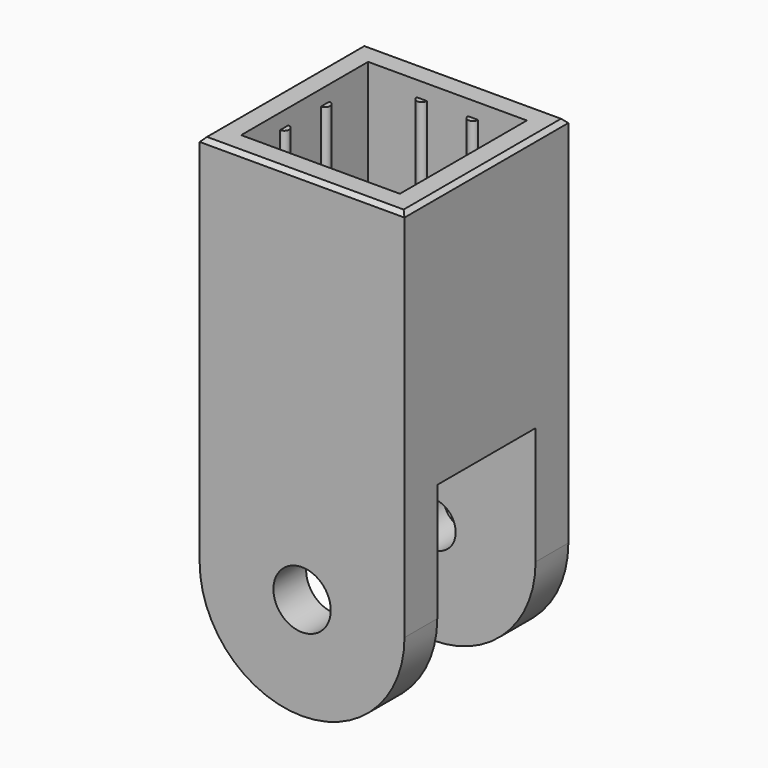
from build123d import *

# Parameters (mm, degrees)
SKETCH264_R           = 2.2
PAD066_DEPTH          = 10
POCKET176_DEPTH       = 10.001
POCKET176_DEPTH_BACK  = 10.001
SKETCH265_W           = 15.5
SKETCH265_H           = 15.5
POCKET177_DEPTH       = 23.501
CYLINDER014_R         = 0.5
CYLINDER014_DEPTH     = 20
CYLINDER015_R         = 0.5
CYLINDER015_DEPTH     = 20
POLARPATTERN005_COUNT = 4
SKETCH271_R           = 2.8
POCKET189_DEPTH       = 4
CHAMFER_SIZE          = 0.4


with BuildPart() as part:
    # Sketch264 → Pad066 (new body, symmetric)
    with BuildSketch(Plane.XZ):
        with BuildLine():
            ThreePointArc((-10, -4.2e-05), (2.1e-05, -10), (10, 0))
            Line((10, 0), (10, 11.5))
            Line((10, 12), (10, 11.5))
            Line((10, 36.5), (10, 12))
            Line((-10, 36.5), (10, 36.5))
            Line((-10, 12), (-10, 36.5))
            Line((-10, 11.5), (-10, 12))
            Line((-10, -4.2e-05), (-10, 11.5))
        make_face()
        Circle(SKETCH264_R, mode=Mode.SUBTRACT)
    extrude(amount=PAD066_DEPTH, both=True)

    # Sketch263 → Pocket176 (cut, two sides)
    with BuildSketch(Plane.YZ) as pocket176_sk:
        Polygon((-6, 11.5), (-6, -11), (-10, -11), (-10, 11.5), (-11.5, 13), (-11.5, -13), (11.5, -13), (11.5, 13), (10, 11.5), (10, -11), (6, -11), (6, 11.5), align=None)
    extrude(amount=-POCKET176_DEPTH, mode=Mode.SUBTRACT)
    extrude(pocket176_sk.sketch, amount=POCKET176_DEPTH_BACK, mode=Mode.SUBTRACT)

    # Sketch265 → Pocket177 (cut, through all)
    with BuildSketch(Plane.XY.offset(13)):
        Rectangle(SKETCH265_W, SKETCH265_H)
    extrude(amount=POCKET177_DEPTH, mode=Mode.SUBTRACT)

    # Cylinder014 → Cylinder014 (join)
    with BuildSketch(Plane(origin=(7.75, -2.5, 15), x_dir=(1, 0, 0), z_dir=(0, 0, 1))):
        Circle(CYLINDER014_R)
    cylinder014 = extrude(amount=CYLINDER014_DEPTH)

    # Cylinder015 → Cylinder015 (join)
    with BuildSketch(Plane(origin=(7.75, 2.5, 15), x_dir=(1, 0, 0), z_dir=(0, 0, 1))):
        Circle(CYLINDER015_R)
    cylinder015 = extrude(amount=CYLINDER015_DEPTH)

    # PolarPattern005: Cylinder014, Cylinder015 ×4 about axis
    polarpattern005_axis = Axis((0, 0, 0), (0, 0, 1))
    for i in range(1, POLARPATTERN005_COUNT):
        add(cylinder014.rotate(polarpattern005_axis, i * 360 / POLARPATTERN005_COUNT))
        add(cylinder015.rotate(polarpattern005_axis, i * 360 / POLARPATTERN005_COUNT))

    # Sketch271 → Pocket189 (cut)
    with BuildSketch(Plane.XZ.offset(10)):
        Circle(SKETCH271_R)
    extrude(amount=-POCKET189_DEPTH, mode=Mode.SUBTRACT)

    # Chamfer
    chamfer_edges = [part.edges().sort_by_distance(p)[0] for p in [
        (10, 0, 36.5),
        (0, -10, 36.5),
        (-10, 0, 36.5),
        (0, 10, 36.5),
    ]]
    chamfer(chamfer_edges, length=CHAMFER_SIZE)


solid = part.part
